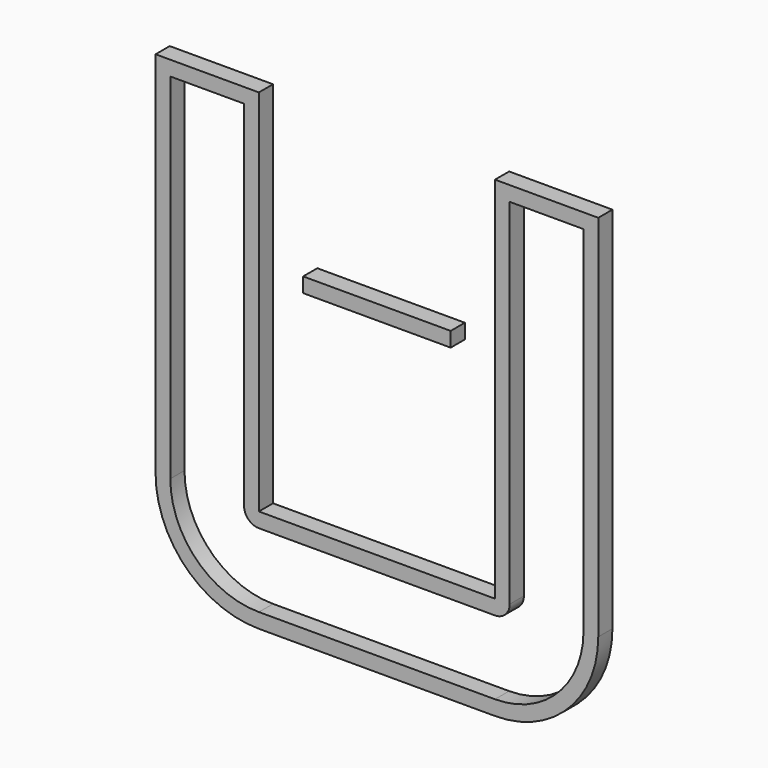
from build123d import *

# Parameters (mm, degrees)
F0_W     = 203.2
F0_H     = 12.7
F0_W_2   = 12.7
F0_H_2   = 304.8
F1_DEPTH = 15.24
F0_W_3   = 127


with BuildPart() as f1:
    # F0 (on Front) → F1 (new body)
    with BuildSketch(Plane.XZ):
        with Locations((0, -197.8870668655)):
            Rectangle(F0_W, F0_H)
        with BuildLine():
            Line((-101.6, -204.2370668655), (-101.6, -191.5370668655))
            ThreePointArc((-101.6, -191.5370668655), (-155.4815367264, -169.2186035919), (-177.8, -115.3370668655))
            Line((-177.8, -115.3370668655), (-190.5, -115.3370668655))
            ThreePointArc((-190.5, -115.3370668655), (-164.4617928475, -178.198859713), (-101.6, -204.2370668655))
        make_face()
        with BuildLine():
            ThreePointArc((177.8, -115.3370668655), (155.4815367264, -169.2186035919), (101.6, -191.5370668655))
            Line((101.6, -191.5370668655), (101.6, -204.2370668655))
            ThreePointArc((101.6, -204.2370668655), (164.4617928475, -178.198859713), (190.5, -115.3370668655))
            Line((190.5, -115.3370668655), (177.8, -115.3370668655))
        make_face()
        with Locations((-184.15, 37.0629331345)):
            Rectangle(F0_W_2, F0_H_2)
        with Locations((184.15, 37.0629331345)):
            Rectangle(F0_W_2, F0_H_2)
        Polygon((-190.5, 189.4629331345), (-177.8, 189.4629331345), (-114.3, 189.4629331345), (-101.6, 189.4629331345), (-101.6, 202.1629331345), (-190.5, 202.1629331345), align=None)
        Polygon((114.3, 189.4629331345), (177.8, 189.4629331345), (190.5, 189.4629331345), (190.5, 202.1629331345), (101.6, 202.1629331345), (101.6, 189.4629331345), align=None)
        with Locations((-107.95, 37.0629331345)):
            Rectangle(F0_W_2, F0_H_2)
        with Locations((107.95, 37.0629331345)):
            Rectangle(F0_W_2, F0_H_2)
        with BuildLine():
            Line((-101.6, -115.3370668655), (-114.3, -115.3370668655))
            ThreePointArc((-114.3, -115.3370668655), (-110.5802561211, -124.3173229865), (-101.6, -128.0370668655))
            Line((-101.6, -128.0370668655), (-101.6, -115.3370668655))
        make_face()
        with BuildLine():
            ThreePointArc((101.6, -128.0370668655), (110.5802561211, -124.3173229865), (114.3, -115.3370668655))
            Line((114.3, -115.3370668655), (101.6, -115.3370668655))
            Line((101.6, -115.3370668655), (101.6, -128.0370668655))
        make_face()
        with Locations((0, -121.6870668655)):
            Rectangle(F0_W, F0_H)
    extrude(amount=F1_DEPTH)


with BuildPart() as f1b:
    # F0 (on Front) → F1, piece 2 (new body)
    with BuildSketch(Plane.XZ):
        with Locations((0, 68.8129331345)):
            Rectangle(F0_W_3, F0_H)
    extrude(amount=F1_DEPTH)


solid = Compound([f1.part, f1b.part])
